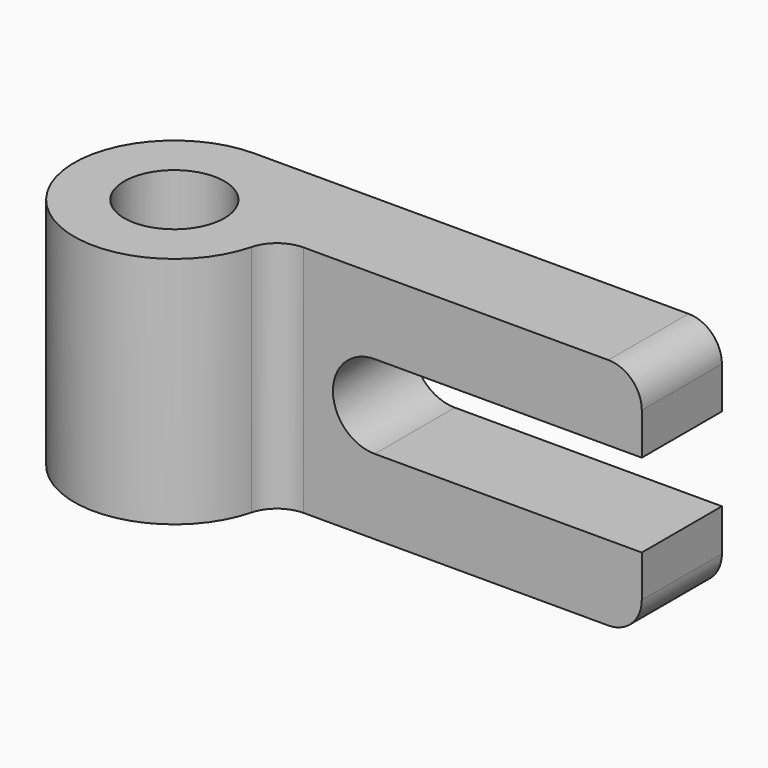
from build123d import *

# Parameters (mm, degrees)
F0_R     = 3.75
F1_DEPTH = 17.5
F3_DEPTH = 25
F4_R     = 2.5


with BuildPart() as f1:
    # F0 (on Top) → F1 (new body)
    with BuildSketch(Plane.XY):
        with BuildLine():
            ThreePointArc((-40.66784, 7.5), (-45.971141, -5.303301), (-33.16784, 0))
            ThreePointArc((-33.16784, 0), (-35.364539, 5.303301), (-40.66784, 7.5))
        make_face()
        with Locations((-40.66784, 0)):
            Circle(F0_R, mode=Mode.SUBTRACT)
        with BuildLine():
            ThreePointArc((-40.66784, 7.5), (-35.364539, 5.303301), (-33.16784, 0))
            Line((-33.16784, 0), (-5.66784, 0))
            Line((-5.66784, 0), (-5.66784, 7.5))
            Line((-5.66784, 7.5), (-40.66784, 7.5))
        make_face()
    extrude(amount=F1_DEPTH)

    # F2 (on face) → F3 (cut)
    with BuildSketch(Plane.XZ):
        with BuildLine():
            Line((-5.66784, 5.625), (-5.66784, 11.875))
            Line((-5.66784, 11.875), (-25.66784, 11.875))
            ThreePointArc((-25.66784, 11.875), (-28.79284, 8.75), (-25.66784, 5.625))
            Line((-25.66784, 5.625), (-5.66784, 5.625))
        make_face()
    extrude(amount=-F3_DEPTH, mode=Mode.SUBTRACT)

    # F4
    f4_edges = [f1.edges().sort_by_distance(p)[0] for p in [
        (-5.66784, 3.75, 17.5),
        (-5.66784, 3.75, 0),
        (-33.16784, 0, 8.75),
    ]]
    fillet(f4_edges, radius=F4_R)


solid = f1.part
